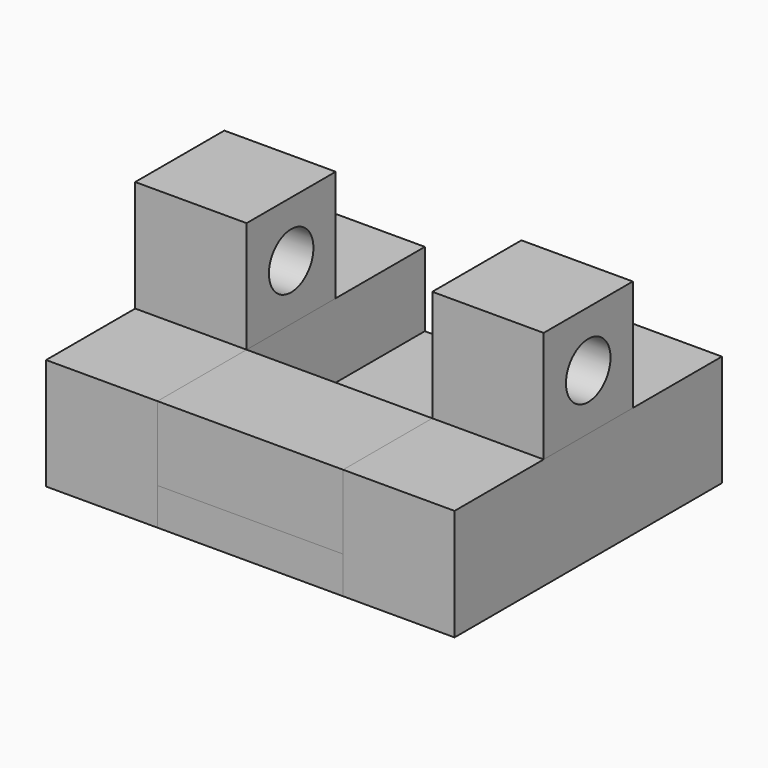
from build123d import *

# Parameters (mm, degrees)
F0_W     = 76.2
F0_H     = 228.6
F1_DEPTH = 76.2
F0_W_2   = 127
F2_DEPTH = 25.4
F3_W     = 127
F3_H     = 76.2
F4_DEPTH = 50.8
F5_W     = 76.2
F5_H     = 76.2
F6_W     = 76.2
F6_H     = 76.2
F7_DEPTH = 76.2
F9_D     = 38.1


with BuildPart() as f1:
    # F0 (on Top) → F1 (new body)
    with BuildSketch(Plane.XY):
        with Locations((-101.6, 0)):
            Rectangle(F0_W, F0_H)
        with Locations((101.6, 0)):
            Rectangle(F0_W, F0_H)
    extrude(amount=F1_DEPTH)


with BuildPart() as f2:
    # F0 (on Top) → F2 (new body)
    with BuildSketch(Plane.XY):
        Rectangle(F0_W_2, F0_H)
    extrude(amount=F2_DEPTH)


with BuildPart() as f4:
    # F3 (on face) → F4 (new body)
    with BuildSketch(Plane.XY.offset(25.4)):
        with Locations((0, -76.2)):
            Rectangle(F3_W, F3_H)
    extrude(amount=F4_DEPTH)


with BuildPart() as f7:
    # F5 (on face) + F6 (on face) → F7 (new body)
    with BuildSketch(Plane.XY.offset(76.2)):
        with Locations((-101.6, 0)):
            Rectangle(F5_W, F5_H)
    with BuildSketch(Plane.XY.offset(76.2)):
        with Locations((101.6, 0)):
            Rectangle(F6_W, F6_H)
    extrude(amount=F7_DEPTH)

    # F9 (through all)
    with Locations(Plane.YZ.offset(139.7)):
        with Locations((0, 114.3)):
            Hole(F9_D / 2)


solid = Compound([f1.part, f2.part, f4.part, f7.part])
